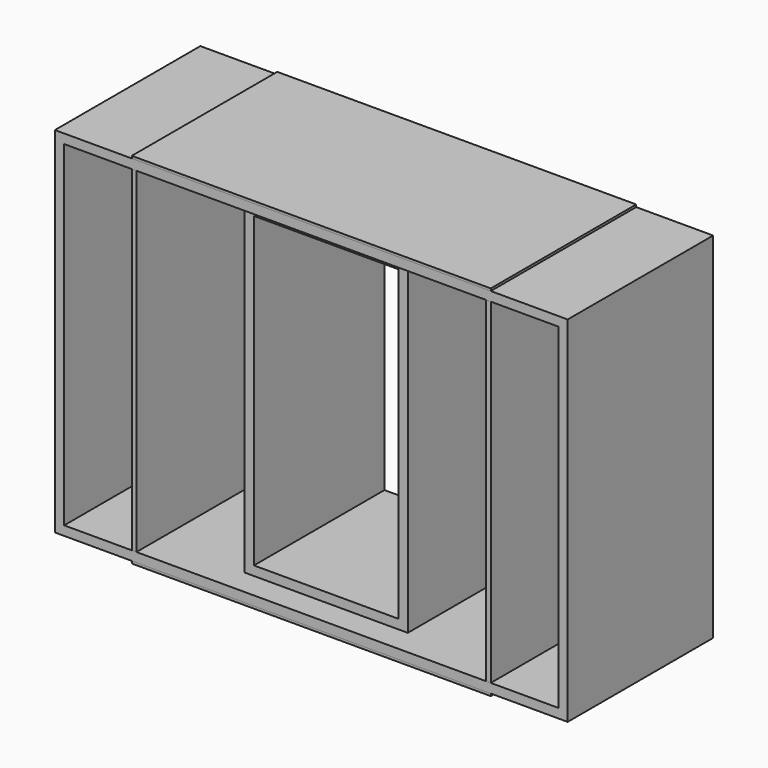
from build123d import *

# Parameters (mm, degrees)
F0_W     = 770
F0_H     = 770
F0_W_2   = 750
F0_H_2   = 750
F1_DEPTH = 390
F2_W     = 1100
F2_H     = 760
F2_W_2   = 1060
F2_H_2   = 720
F3_DEPTH = 390
F4_W     = 350
F4_H     = 700
F4_W_2   = 310
F4_H_2   = 660
F5_DEPTH = 350


with BuildPart() as f1:
    # F0 (on Front) → F1 (new body)
    with BuildSketch(Plane.XZ):
        Rectangle(F0_W, F0_H)
        Rectangle(F0_W_2, F0_H_2, mode=Mode.SUBTRACT)
    extrude(amount=F1_DEPTH)


with BuildPart() as f3:
    # F2 (on Front) → F3 (new body)
    with BuildSketch(Plane.XZ):
        Rectangle(F2_W, F2_H)
        Rectangle(F2_W_2, F2_H_2, mode=Mode.SUBTRACT)
    extrude(amount=F3_DEPTH)


with BuildPart() as f5:
    # F4 (on Front) → F5 (new body)
    with BuildSketch(Plane.XZ):
        Rectangle(F4_W, F4_H)
        Rectangle(F4_W_2, F4_H_2, mode=Mode.SUBTRACT)
    extrude(amount=F5_DEPTH)


solid = Compound([f1.part, f3.part, f5.part])
